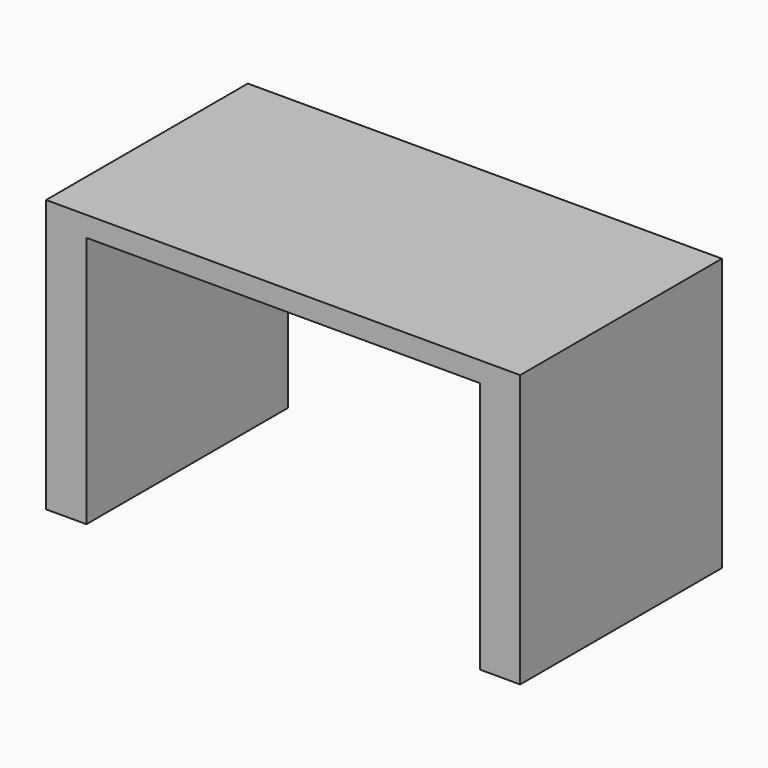
from build123d import *

# Parameters (mm, degrees)
F0_W     = 4
F0_H     = 25
F1_DEPTH = 25
F2_W     = 47
F2_H     = 25
F3_DEPTH = 2


with BuildPart() as f1:
    # F0 (on Top) → F1 (new body)
    with BuildSketch(Plane.XY):
        with Locations((-21.5, 0)):
            Rectangle(F0_W, F0_H)
        with Locations((21.5, 0)):
            Rectangle(F0_W, F0_H)
    extrude(amount=F1_DEPTH)

    # F2 (on face) → F3 (join)
    with BuildSketch(Plane.XY.offset(25)):
        Rectangle(F2_W, F2_H)
    extrude(amount=F3_DEPTH)


solid = f1.part
